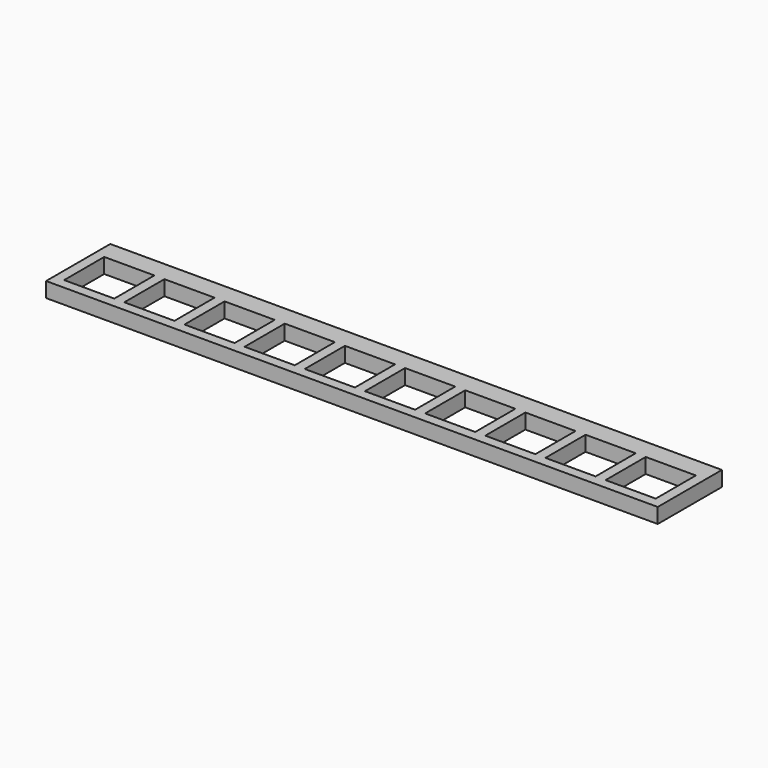
from build123d import *

# Parameters (mm, degrees)
BOX_W         = 10
BOX_H         = 10
BOX_DEPTH     = 10
ARRAY_X_COUNT = 10
ARRAY_X_PITCH = 12
BOX001_W      = 122
BOX001_H      = 16
BOX001_DEPTH  = 3


with BuildPart() as array:
    # Box → Box (new body)
    with BuildSketch(Plane.XY):
        with Locations((5, 5)):
            Rectangle(BOX_W, BOX_H)
    extrude(amount=BOX_DEPTH)

    # Array X: Array ×10


with BuildPart() as array_1:
    add(array.part)
    with Locations(*[(i * ARRAY_X_PITCH, 0, 0) for i in range(1, ARRAY_X_COUNT)]):
        add(array.part)


with BuildPart() as cut:
    # Box001 → Box001 (new body)
    with BuildSketch(Plane(origin=(-2, -2, 4), x_dir=(1, 0, 0), z_dir=(0, 0, 1))):
        with Locations((61, 8)):
            Rectangle(BOX001_W, BOX001_H)
    extrude(amount=BOX001_DEPTH)

    # Cut: cut Array
    add(array_1.part, mode=Mode.SUBTRACT)


solid = cut.part
